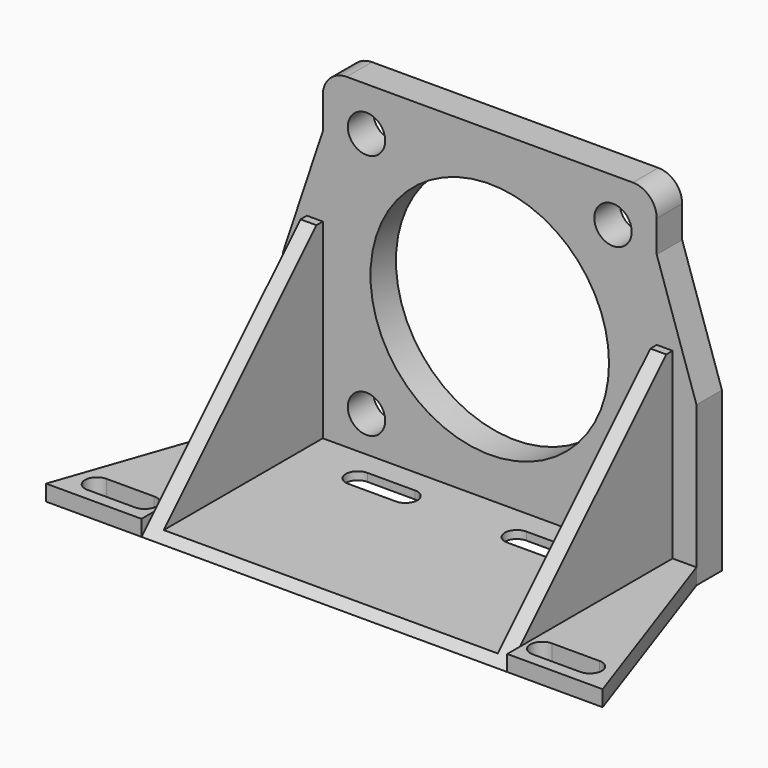
from build123d import *

# Parameters (mm, degrees)
F0_R     = 2.348250802
F0_R_2   = 15
F0_W     = 3
F0_H     = 20
F0_W_2   = 42
F0_H_2   = 1
F1_DEPTH = 4
F0_W_3   = 2
F0_H_3   = 5
F2_DEPTH = 30
F4_DEPTH = 49.001
F6_DEPTH = 2
F7_DEPTH = 25
F8_R     = 3


with BuildPart() as f1:
    # F0 (on Front) → F1 (new body)
    with BuildSketch(Plane.XZ):
        Polygon((21, 14), (21, 21), (-21, 21), (-21, 14), (-21, 4), (-21, -1), (-21, -20), (21, -20), (21, -1), (21, 4), align=None)
        with Locations((-15.5, -15.5)):
            Circle(F0_R, mode=Mode.SUBTRACT)
        with Locations((15.5, -15.5)):
            Circle(F0_R, mode=Mode.SUBTRACT)
        with Locations((-15.5, 15.5)):
            Circle(F0_R, mode=Mode.SUBTRACT)
        Circle(F0_R_2, mode=Mode.SUBTRACT)
        with Locations((15.5, 15.5)):
            Circle(F0_R, mode=Mode.SUBTRACT)
        Polygon((26, -1), (21, 14), (21, 4), (23, 4), (23, -1), align=None)
        Polygon((-21, 4), (-21, 14), (-26, -1), (-23, -1), (-23, 4), align=None)
        with Locations((24.5, -11)):
            Rectangle(F0_W, F0_H)
        with Locations((-24.5, -11)):
            Rectangle(F0_W, F0_H)
        with Locations((0, -20.5)):
            Rectangle(F0_W_2, F0_H_2)
    extrude(amount=F1_DEPTH)

    # F0 (on Front) → F2 (join)
    with BuildSketch(Plane.XZ):
        with Locations((22, 1.5)):
            Rectangle(F0_W_3, F0_H_3)
        Polygon((23, -1), (21, -1), (21, -20), (21, -21), (23, -21), align=None)
        with Locations((-22, 1.5)):
            Rectangle(F0_W_3, F0_H_3)
        Polygon((-21, -20), (-21, -1), (-23, -1), (-23, -21), (-21, -21), align=None)
        with Locations((0, -20.5)):
            Rectangle(F0_W_2, F0_H_2)
    extrude(amount=F2_DEPTH)

    # F3 (on face) → F4 (cut, through all)
    with BuildSketch(Plane.YZ.offset(23)):
        Polygon((-30, -21), (-5, 4), (-30, 4), align=None)
    extrude(amount=-F4_DEPTH, mode=Mode.SUBTRACT)

    # F5 (on face) → F6 (join)
    with BuildSketch(Plane(origin=(0, 0, -21), x_dir=(1, 0, 0), z_dir=(0, 0, -1))):
        Polygon((-23, 4), (-23, 30), (-35, 30), (-26, 4), align=None)
        with BuildLine():
            ThreePointArc((-25, 28.5), (-23.9393398282, 28.0606601718), (-23.5, 27))
            ThreePointArc((-23.5, 27), (-23.9393398282, 25.9393398282), (-25, 25.5))
            Line((-25, 25.5), (-31, 25.5))
            ThreePointArc((-31, 25.5), (-32.5, 27), (-31, 28.5))
            Line((-31, 28.5), (-25, 28.5))
        make_face(mode=Mode.SUBTRACT)
        Polygon((23, 4), (26, 4), (35, 30), (23, 30), align=None)
        with BuildLine():
            ThreePointArc((25, 25.5), (23.5, 27), (25, 28.5))
            Line((25, 28.5), (31, 28.5))
            ThreePointArc((31, 28.5), (32.0606601718, 28.0606601718), (32.5, 27))
            ThreePointArc((32.5, 27), (32.0606601718, 25.9393398282), (31, 25.5))
            Line((31, 25.5), (25, 25.5))
        make_face(mode=Mode.SUBTRACT)
    extrude(amount=-F6_DEPTH)

    # F5 (on face) → F7 (cut)
    with BuildSketch(Plane(origin=(0, 0, -21), x_dir=(1, 0, 0), z_dir=(0, 0, -1))):
        with BuildLine():
            ThreePointArc((-7, 7), (-8.5, 8.5), (-7, 10))
            Line((-7, 10), (-13, 10))
            ThreePointArc((-13, 10), (-11.9393398282, 9.5606601718), (-11.5, 8.5))
            ThreePointArc((-11.5, 8.5), (-11.9393398282, 7.4393398282), (-13, 7))
            Line((-13, 7), (-7, 7))
        make_face()
        with BuildLine():
            ThreePointArc((-11.5, 8.5), (-11.9393398282, 9.5606601718), (-13, 10))
            ThreePointArc((-13, 10), (-14.5, 8.5), (-13, 7))
            ThreePointArc((-13, 7), (-11.9393398282, 7.4393398282), (-11.5, 8.5))
        make_face()
        with BuildLine():
            ThreePointArc((-7, 7), (-5.9393398282, 7.4393398282), (-5.5, 8.5))
            ThreePointArc((-5.5, 8.5), (-5.9393398282, 9.5606601718), (-7, 10))
            ThreePointArc((-7, 10), (-8.5, 8.5), (-7, 7))
        make_face()
        with BuildLine():
            Line((13, 10), (7, 10))
            ThreePointArc((7, 10), (8.0606601718, 9.5606601718), (8.5, 8.5))
            ThreePointArc((8.5, 8.5), (8.0606601718, 7.4393398282), (7, 7))
            Line((7, 7), (13, 7))
            ThreePointArc((13, 7), (11.5, 8.5), (13, 10))
        make_face()
        with BuildLine():
            ThreePointArc((14.5, 8.5), (14.0606601718, 9.5606601718), (13, 10))
            ThreePointArc((13, 10), (11.5, 8.5), (13, 7))
            ThreePointArc((13, 7), (14.0606601718, 7.4393398282), (14.5, 8.5))
        make_face()
        with BuildLine():
            ThreePointArc((8.5, 8.5), (8.0606601718, 9.5606601718), (7, 10))
            ThreePointArc((7, 10), (5.5, 8.5), (7, 7))
            ThreePointArc((7, 7), (8.0606601718, 7.4393398282), (8.5, 8.5))
        make_face()
    extrude(amount=-F7_DEPTH, mode=Mode.SUBTRACT)

    # F8
    f8_edges = [f1.edges().sort_by_distance(p)[0] for p in [
        (21, -2, 21),
        (-21, -2, 21),
    ]]
    fillet(f8_edges, radius=F8_R)


solid = f1.part
